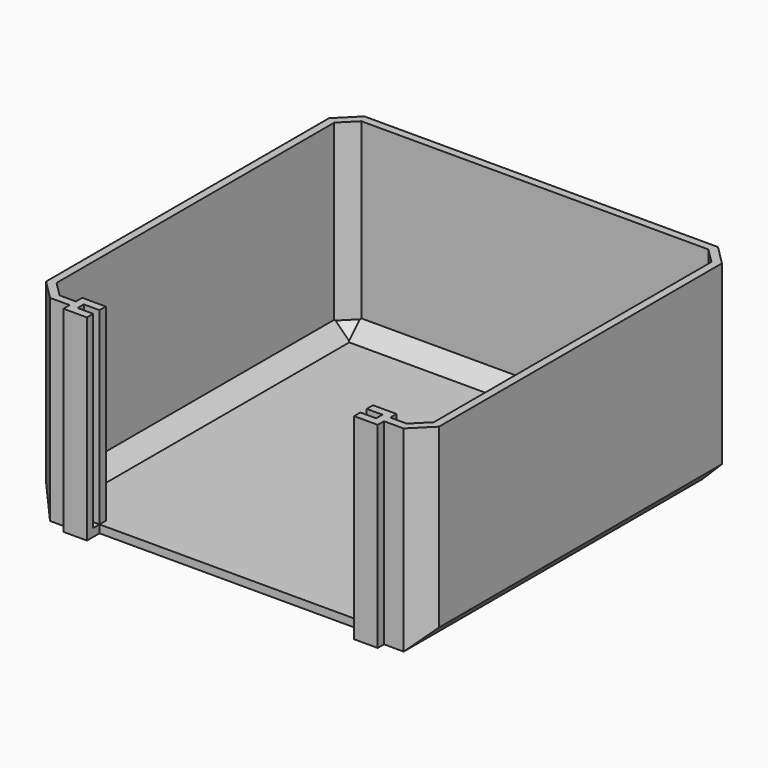
from build123d import *

# Parameters (mm, degrees)
F0_W      = 100
F0_H      = 50
F1_DEPTH  = 100
F2_SIZE   = 5
F3_T      = -2
F4_W      = 80
F4_H      = 2
F5_DEPTH  = 50
F7_DEPTH  = 50
F8_W      = 2
F8_H      = 2
F9_DEPTH  = 4
F11_DEPTH = 50
F12_W     = 2
F12_H     = 2
F13_DEPTH = 4


with BuildPart() as f1:
    # F0 (on Front) → F1 (new body)
    with BuildSketch(Plane.XZ):
        with Locations((50, 25)):
            Rectangle(F0_W, F0_H)
    extrude(amount=F1_DEPTH)

    # F2
    f2_edges = [f1.edges().sort_by_distance(p)[0] for p in [
        (50, 0, 0),
        (0, -50, 0),
        (100, -50, 0),
        (0, -100, 25),
        (100, -100, 25),
        (100, 0, 25),
        (0, 0, 25),
    ]]
    chamfer(f2_edges, length=F2_SIZE)

    # F3
    f3_openings = [f1.faces().sort_by_distance(p)[0] for p in [
        (50, -50, 50),
    ]]
    offset(amount=F3_T, openings=f3_openings)

    # F4 (on face) → F5 (cut)
    with BuildSketch(Plane.XY.offset(50)):
        with Locations((50, -99)):
            Rectangle(F4_W, F4_H)
    extrude(amount=-F5_DEPTH, mode=Mode.SUBTRACT)

    # F6 (on face) → F7 (join)
    with BuildSketch(Plane(origin=(0, 0, 0), x_dir=(1, 0, 0), z_dir=(0, 0, -1))):
        Polygon((16, 102), (10, 102), (10, 100), (10, 98), (12, 98), (12, 100), (16, 100), align=None)
        Polygon((12, 98), (10, 98), (10, 96), (16, 96), (16, 98), align=None)
    extrude(amount=-F7_DEPTH)

    # F8 (on face) → F9 (join)
    with BuildSketch(Plane.YZ.offset(12)):
        with Locations((-99, 1)):
            Rectangle(F8_W, F8_H)
    extrude(amount=F9_DEPTH)

    # F10 (on face) → F11 (join)
    with BuildSketch(Plane(origin=(0, 0, 0), x_dir=(1, 0, 0), z_dir=(0, 0, -1))):
        Polygon((90, 100), (90, 102), (84, 102), (84, 100), (88, 100), (88, 98), (90, 98), align=None)
        Polygon((90, 96), (90, 98), (88, 98), (84, 98), (84, 96), align=None)
    extrude(amount=-F11_DEPTH)

    # F12 (on face) → F13 (join)
    with BuildSketch(Plane(origin=(88, 0, 0), x_dir=(0, -1, 0), z_dir=(-1, 0, 0))):
        with Locations((99, 1)):
            Rectangle(F12_W, F12_H)
    extrude(amount=F13_DEPTH)


solid = f1.part
